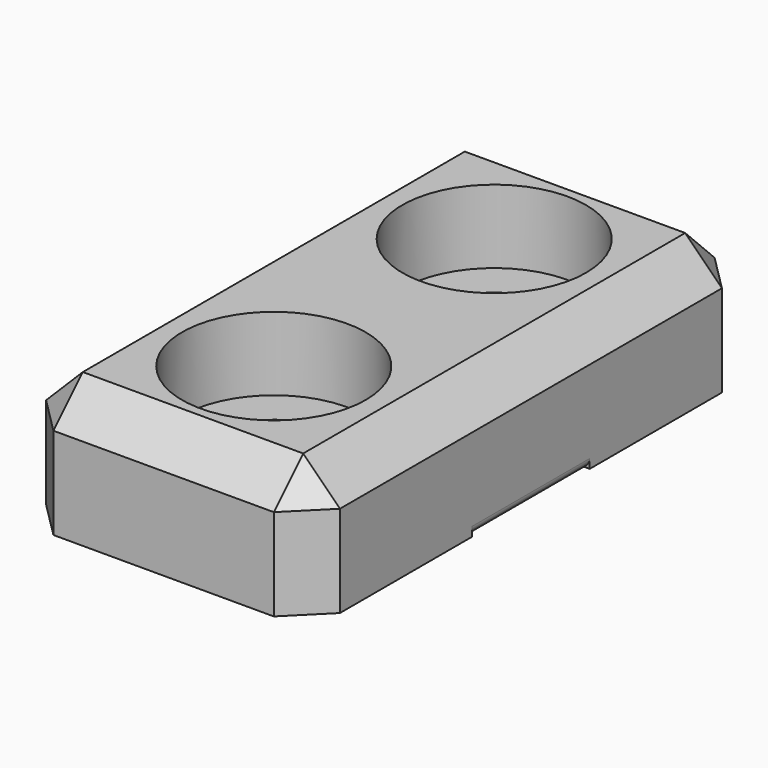
from build123d import *

# Parameters (mm, degrees)
SKETCH_W          = 16
SKETCH_H          = 30
SKETCH_R          = 2.75
PAD_DEPTH         = 7
POCKET_DEPTH      = 4
POCKET_DEPTH_BACK = -4
CHAMFER_SIZE      = 2
SKETCH002_R       = 5
POCKET001_DEPTH   = 4


with BuildPart() as part:
    # Sketch → Pad (new body)
    with BuildSketch(Plane.XY):
        Rectangle(SKETCH_W, SKETCH_H)
        with Locations((0, 7.5)):
            Circle(SKETCH_R, mode=Mode.SUBTRACT)
        with Locations((0, -7.5)):
            Circle(SKETCH_R, mode=Mode.SUBTRACT)
    extrude(amount=PAD_DEPTH)

    # Sketch001 → Pocket (cut, two sides)
    with BuildSketch(Plane.XZ) as pocket_sk:
        with BuildLine():
            ThreePointArc((-7, 0.5), (-7.5, 1), (-8, 0.5))
            Line((-8, 0.5), (-8, -1.5))
            Line((-8, -1.5), (0, -1.5))
            Line((8, -1.5), (0, -1.5))
            Line((8, 0.499993), (8, -1.5))
            ThreePointArc((7, 0.5), (7.499996, 0), (8, 0.499993))
            ThreePointArc((7, 0.5), (6.5, 1), (6, 0.5))
            ThreePointArc((5, 0.5), (5.5, 0), (6, 0.5))
            ThreePointArc((5, 0.5), (4.5, 1), (4, 0.5))
            ThreePointArc((3, 0.5), (3.5, 0), (4, 0.5))
            ThreePointArc((3, 0.5), (2.5, 1), (2, 0.5))
            ThreePointArc((1, 0.5), (1.5, 0), (2, 0.5))
            ThreePointArc((1, 0.5), (0.5, 1), (0, 0.5))
            ThreePointArc((-1, 0.5), (-0.5, 0), (0, 0.5))
            ThreePointArc((-1, 0.5), (-1.5, 1), (-2, 0.5))
            ThreePointArc((-3, 0.5), (-2.5, 0), (-2, 0.5))
            ThreePointArc((-3, 0.5), (-3.5, 1), (-4, 0.5))
            ThreePointArc((-5, 0.5), (-4.5, 0), (-4, 0.5))
            ThreePointArc((-5, 0.5), (-5.5, 1), (-6, 0.5))
            ThreePointArc((-7, 0.5), (-6.5, 0), (-6, 0.5))
        make_face()
    extrude(amount=-POCKET_DEPTH, mode=Mode.SUBTRACT)
    extrude(pocket_sk.sketch, amount=-POCKET_DEPTH_BACK, mode=Mode.SUBTRACT)

    # Chamfer
    chamfer_edges = [part.edges().sort_by_distance(p)[0] for p in [
        (8, 15, 3.5),
        (-8, 15, 3.5),
        (-8, -15, 3.5),
        (-8, 0, 7),
        (0, 15, 7),
        (8, -15, 3.5),
        (0, -15, 7),
        (8, 0, 7),
    ]]
    chamfer(chamfer_edges, length=CHAMFER_SIZE)

    # Sketch002 (on DatumPlane) → Pocket001 (cut)
    with BuildSketch(Plane.XY.offset(7)):
        with Locations((0, 7.5)):
            Circle(SKETCH002_R)
        with Locations((0, -7.5)):
            Circle(SKETCH002_R)
    extrude(amount=-POCKET001_DEPTH, mode=Mode.SUBTRACT)


solid = part.part
